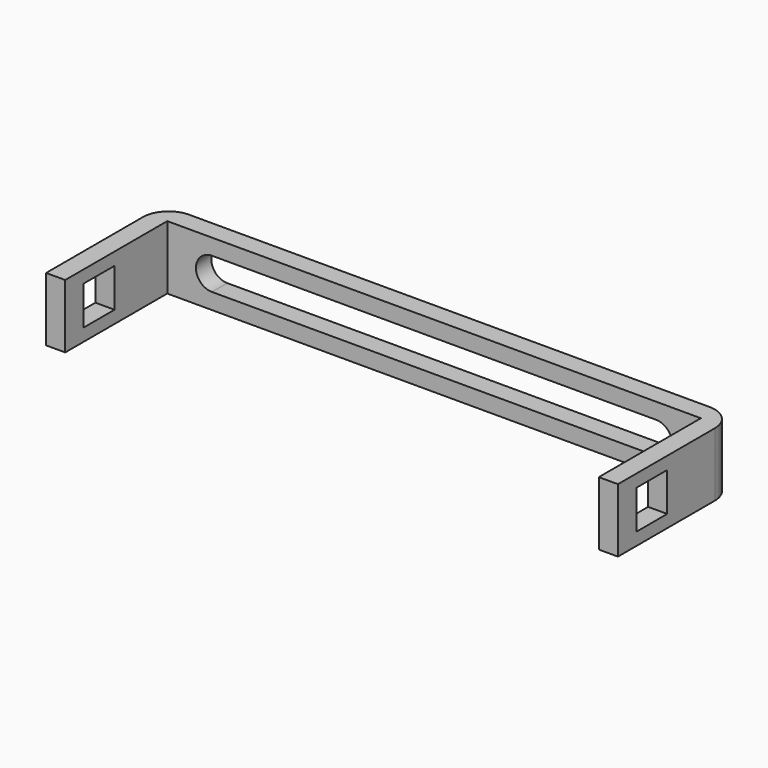
from build123d import *

# Parameters (mm, degrees)
F1_DEPTH = 7.62
F2_W     = 4.6228
F2_H     = 4.6228
F3_DEPTH = 86.106
F5_DEPTH = 25.4
F6_R     = 3.066051


with BuildPart() as f1:
    # F0 (on Top) → F1 (new body)
    with BuildSketch(Plane.XY):
        Polygon((-30.078946, 8.722895), (-30.078946, 23.962895), (33.675054, 23.962895), (33.675054, 8.722895), (35.961054, 8.722895), (35.961054, 26.248895), (-32.364946, 26.248895), (-32.364946, 8.722895), align=None)
    extrude(amount=F1_DEPTH)

    # F2 (on face) → F3 (cut)
    with BuildSketch(Plane.YZ.offset(35.961054)):
        with Locations((13.775022, 3.81)):
            Rectangle(F2_W, F2_H)
    extrude(amount=-F3_DEPTH, mode=Mode.SUBTRACT)

    # F4 (on face) → F5 (cut)
    with BuildSketch(Plane(origin=(0, 26.248895, 0), x_dir=(-1, 0, 0), z_dir=(0, 1, 0))):
        with BuildLine():
            Line((24.744946, 5.715), (-28.341054, 5.715))
            Line((-28.341054, 5.715), (-28.341054, 1.905))
            Line((-28.341054, 1.905), (24.744946, 1.905))
            ThreePointArc((24.744946, 1.905), (26.649946, 3.81), (24.744946, 5.715))
        make_face()
        with BuildLine():
            Line((-28.341054, 1.905), (-28.341054, 5.715))
            ThreePointArc((-28.341054, 5.715), (-30.246054, 3.81), (-28.341054, 1.905))
        make_face()
    extrude(amount=-F5_DEPTH, mode=Mode.SUBTRACT)

    # F6
    f6_edges = [f1.edges().sort_by_distance(p)[0] for p in [
        (35.961054, 26.248895, 3.81),
        (-32.364946, 26.248895, 3.81),
    ]]
    fillet(f6_edges, radius=F6_R)


solid = f1.part
